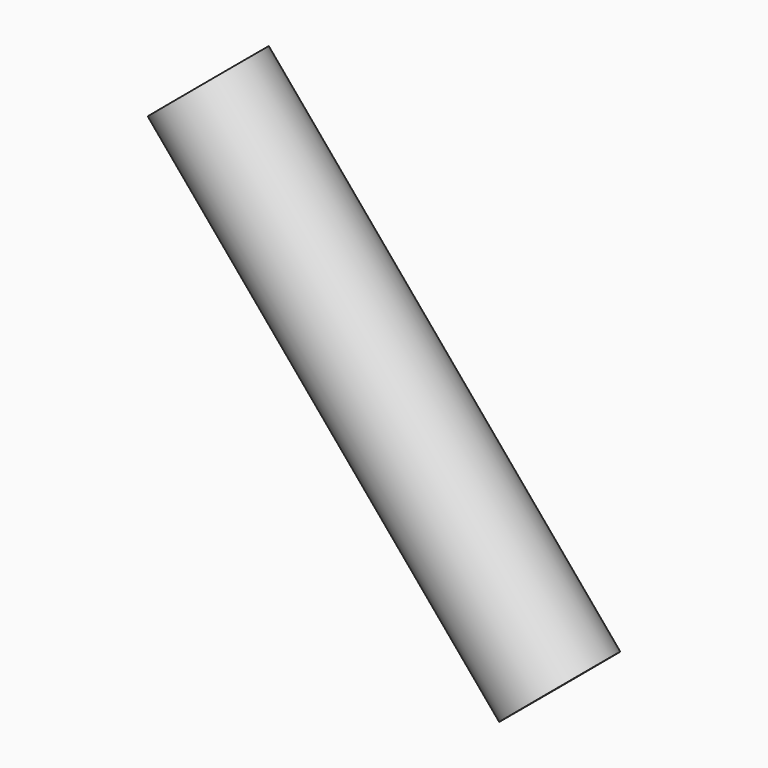
from build123d import *

# Parameters (mm, degrees)
CYLINDER154_R                     = 1.5
CYLINDER154_DEPTH                 = 15
CYLINDER154_PLACEMENT_ANGLE       = 40
PART_MIRRORING002_PLACEMENT_ANGLE = 90


with BuildPart() as cylinder154:
    # Cylinder154 → Cylinder154 (new body)
    with BuildSketch(Plane.XY):
        Circle(CYLINDER154_R)
    extrude(amount=CYLINDER154_DEPTH)


with BuildPart() as cylinder154_1:
    # Cylinder154 placement: moved
    add(cylinder154.part.moved(Location((0, -251.493993, -317.931136))).rotate(Axis((0, -251.493993, -317.931136), (-1, 0, 0)), CYLINDER154_PLACEMENT_ANGLE))


with BuildPart() as part_mirroring002:
    # Part__Mirroring002: instance of Cylinder154
    add(cylinder154_1.part.mirror(Plane(origin=(0, 0, 0), x_dir=(1, 0, 0), z_dir=(0, 1, 0))))


with BuildPart() as part_mirroring002_1:
    # Part__Mirroring002 placement: moved
    add(part_mirroring002.part.moved(Location((291.3, -284.14, 0.98))).rotate(Axis((291.3, -284.14, 0.98), (0, 0, 1)), PART_MIRRORING002_PLACEMENT_ANGLE))


with BuildPart() as part_mirroring003:
    # Part__Mirroring003: instance of Part__Mirroring002
    add(part_mirroring002_1.part.mirror(Plane(origin=(0, 0, 0), x_dir=(0, -1, 0), z_dir=(1, 0, 0))))


solid = part_mirroring003.part
